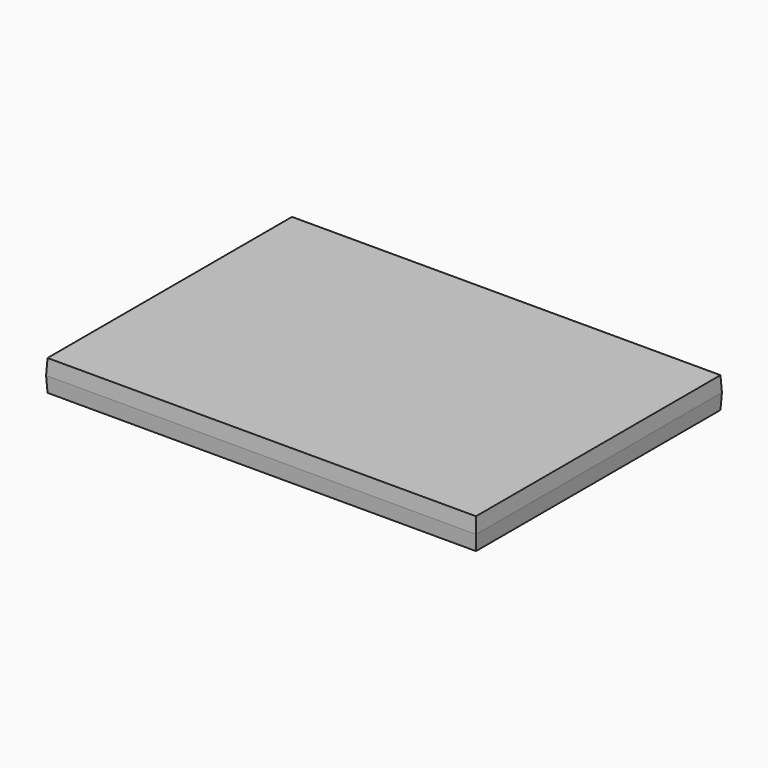
from build123d import *

# Parameters (mm, degrees)
F0_W     = 3556
F0_H     = 2540
F1_DEPTH = 127
F1_TAPER = 3


with BuildPart() as f1:
    # F0 (on Top) → F1 (new body, symmetric)
    with BuildSketch(Plane.XY):
        with Locations((1778, -1269.8946553169)):
            Rectangle(F0_W, F0_H)
    extrude(amount=F1_DEPTH, both=True, taper=F1_TAPER)


solid = f1.part
